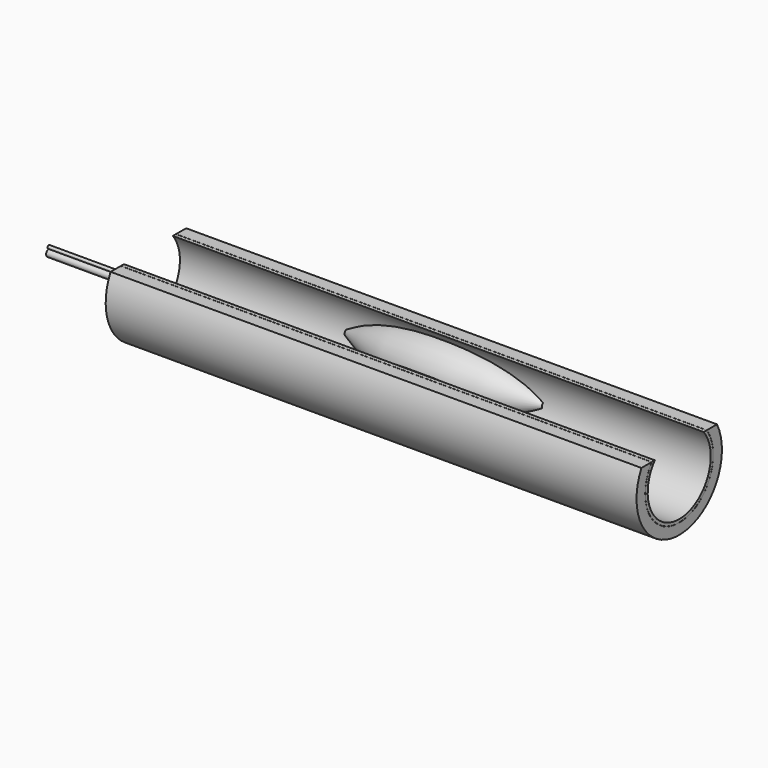
from build123d import *

# Parameters (mm, degrees)
F0_R            = 32.4673386436
F0_R_2          = 30.1727307913
F1_DEPTH        = 203.2
F1_DEPTH_BACK   = 203.2
F2_R            = 40.8605619472
F2_R_2          = 32.5577608494
F3_DEPTH        = 203.2
F3_DEPTH_BACK   = 203.2
F5_W            = 426.0290712118
F5_H            = 92.9357036948
F6_DEPTH        = 35.814
F10_ANGLE_START = 85
F10_ANGLE       = 175
F12_R           = 1.2214298406
F13_DEPTH       = 127
F13_DEPTH_BACK  = 279.4
F12_R_2         = 2.5987159978


with BuildPart() as f1:
    # F0 (on Right) → F1 (new body, two sides)
    with BuildSketch(Plane.YZ) as f1_sk:
        Circle(F0_R)
        Circle(F0_R_2, mode=Mode.SUBTRACT)
    extrude(amount=F1_DEPTH)
    extrude(f1_sk.sketch, amount=-F1_DEPTH_BACK)


with BuildPart() as f3:
    # F2 (on Right) → F3 (new body, two sides)
    with BuildSketch(Plane.YZ) as f3_sk:
        Circle(F2_R)
        Circle(F2_R_2, mode=Mode.SUBTRACT)
    extrude(amount=F3_DEPTH)
    extrude(f3_sk.sketch, amount=-F3_DEPTH_BACK)


with BuildPart() as f6_tool:
    # F5 (on offset) → F6 (new body)
    with BuildSketch(Plane.XY.offset(19.05)):
        with Locations((-1.902602613, -0.8687376976)):
            Rectangle(F5_W, F5_H)
    extrude(amount=F6_DEPTH)


with BuildPart() as f1_1:
    add(f1.part)

    # F6: cut by f6_tool
    add(f6_tool.part, mode=Mode.SUBTRACT)


with BuildPart() as f3_1:
    add(f3.part)

    # F6: cut by f6_tool
    add(f6_tool.part, mode=Mode.SUBTRACT)


with BuildPart() as f10:
    # F9 (on offset) → F10 (revolve)
    with BuildSketch(Plane.XY.offset(-7.62), mode=Mode.PRIVATE) as f10_sk:
        with BuildLine():
            ThreePointArc((75.1721858978, 34.1127887368), (-0.3721378744, 53.4572516303), (-75.9164616466, 34.1127887368))
            Line((-75.9164616466, 34.1127887368), (75.1721858978, 34.1127887368))
        make_face()
    revolve(f10_sk.sketch.rotate(Axis((-0.248093158, 31.383767724, -7.62), (1, 0, 0)), F10_ANGLE_START), axis=Axis((-0.248093158, 31.383767724, -7.62), (1, 0, 0)), revolution_arc=F10_ANGLE)


with BuildPart() as f11_1:
    # F11: instance of F10
    add(f10.part.mirror(Plane.XZ))


with BuildPart() as f13:
    # F12 (on Right) → F13 (new body, two sides)
    with BuildSketch(Plane.YZ) as f13_sk:
        with Locations((-0.056984587, -3.5742109176)):
            Circle(F12_R)
    extrude(amount=F13_DEPTH)
    extrude(f13_sk.sketch, amount=-F13_DEPTH_BACK)


with BuildPart() as f13b:
    # F12 (on Right) → F13, piece 2 (new body, two sides)
    with BuildSketch(Plane.YZ) as f13_2_sk:
        with Locations((-0.056984587, -7.6277935877)):
            Circle(F12_R_2)
    extrude(amount=F13_DEPTH)
    extrude(f13_2_sk.sketch, amount=-F13_DEPTH_BACK)


with BuildPart() as f17:
    # F16 (on offset) → F17 (revolve)
    with BuildSketch(Plane.XY.offset(-5.08)):
        with BuildLine():
            Line((-84.1507039539, 0.6720922538), (83.5779629223, 0.6720922538))
            ThreePointArc((83.5779629223, 0.6720922538), (-0.2863705158, 7.5236079888), (-84.1507039539, 0.6720922538))
        make_face()
    revolve(axis=Axis((0.1993626356, 0.1473052253, -5.08), (1, 0, 0)))


solid = Compound([f1_1.part, f3_1.part, f10.part, f11_1.part, f13.part, f13b.part, f17.part])
